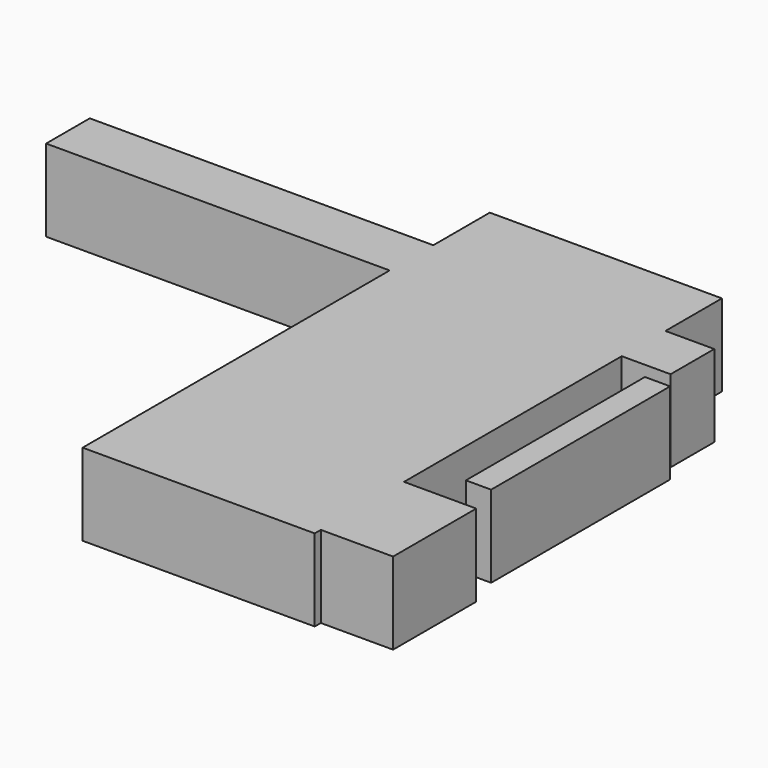
from build123d import *

# Parameters (mm, degrees)
F0_W     = 7.8222937882
F0_H     = 69.3201888353
F1_DEPTH = 12.7
F0_W_2   = 71.8987882137
F0_H_2   = 21.8682922423
F0_W_3   = 106.4144149423
F0_H_3   = 16.9201586396
F0_W_4   = 15.1269100606
F0_W_5   = 22.375702858
F0_H_4   = 32.1964770555


with BuildPart() as f1:
    # F0 (on Top) → F1 (new body, symmetric)
    with BuildSketch(Plane.XY):
        with Locations((36.3476295024, -23.2877088711)):
            Rectangle(F0_W, F0_H)
    extrude(amount=F1_DEPTH, both=True)


with BuildPart() as f1b:
    # F0 (on Top) → F1, piece 2 (new body, symmetric)
    with BuildSketch(Plane.XY):
        with Locations((-14.7007629275, 44.2392174155)):
            Rectangle(F0_W_2, F0_H_2)
        with Locations((-103.8573645055, 24.8449919745)):
            Rectangle(F0_W_3, F0_H_3)
        with Locations((28.8120862097, 24.8449919745)):
            Rectangle(F0_W_4, F0_H_3)
        with Locations((32.4364826083, -84.0205773711)):
            Rectangle(F0_W_5, F0_H_4)
        with Locations((-14.7007629275, 24.8449919745)):
            Rectangle(F0_W_2, F0_H_3)
        Polygon((21.2486311793, 16.3849126548), (-50.6501570344, 16.3849126548), (-50.6501570344, -102.4854183197), (21.2486311793, -102.4854183197), (21.2486311793, -100.1188158989), (21.2486311793, -67.9223388433), align=None)
    extrude(amount=F1_DEPTH, both=True)


solid = Compound([f1.part, f1b.part])
